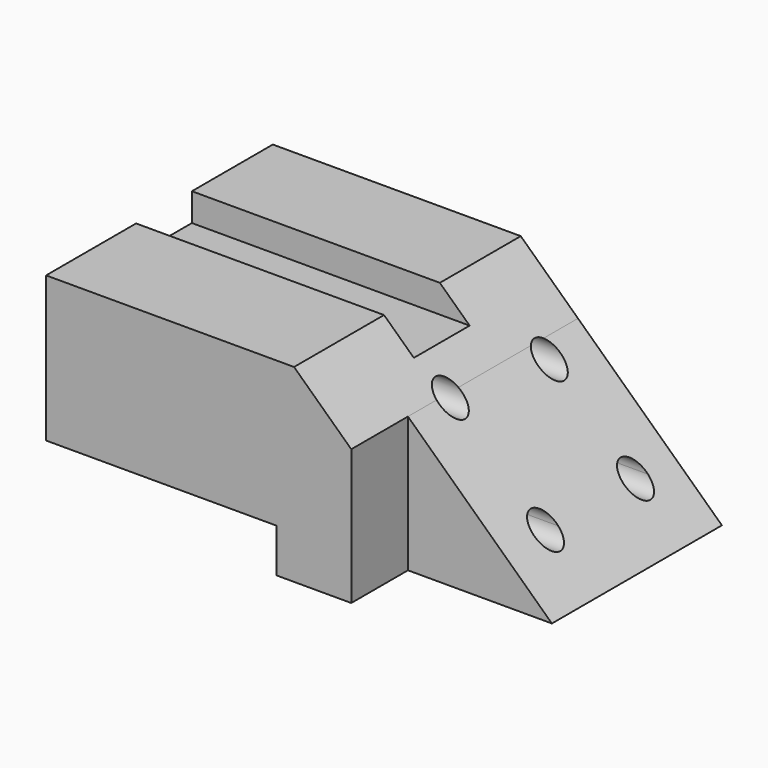
from build123d import *

# Parameters (mm, degrees)
F1_DEPTH = 101.6
F3_DEPTH = 76.2
F4_W     = 25.0135893855
F4_H     = 20.0843550265
F5_DEPTH = 103.378
F6_R     = 4.9794966454
F7_DEPTH = 167.132


with BuildPart() as f1:
    # F0 (on Front) → F1 (new body)
    with BuildSketch(Plane.XZ):
        Polygon((-99.4555056095, 23.3819726855), (-99.4555056095, -18.3572731912), (-99.4555056095, -28.7481807172), (-16.8563630432, -28.7481807172), (-16.8563630432, -44.4500036538), (9.9582020193, -44.4500036538), (9.9582020193, 4.0893019177), (-10.5538228527, 23.3819726855), align=None)
    extrude(amount=F1_DEPTH)

    # F2 (on face) → F3 (join)
    with BuildSketch(Plane(origin=(0, 0, 0), x_dir=(-1, 0, 0), z_dir=(0, 1, 0))):
        Polygon((-9.9582020193, -44.4500036538), (-9.9582020193, 4.0893019177), (-61.5653358961, -44.4500036538), align=None)
    extrude(amount=-F3_DEPTH)

    # F4 (on face) → F5 (cut)
    with BuildSketch(Plane(origin=(-99.4555056095, 0, 0), x_dir=(0, -1, 0), z_dir=(-1, 0, 0))):
        with Locations((48.7646157427, 23.3819726855)):
            Rectangle(F4_W, F4_H)
    extrude(amount=-F5_DEPTH, mode=Mode.SUBTRACT)

    # F6 (on face) → F7 (cut)
    with BuildSketch(Plane(origin=(-99.4555056095, 0, 0), x_dir=(0, -1, 0), z_dir=(-1, 0, 0))):
        with Locations((18.2879269123, 0)):
            Circle(F6_R)
        with BuildLine():
            Line((62.3561588025, -28.7481807172), (52.4646214301, -28.7481807172))
            ThreePointArc((52.4646214301, -28.7481807172), (57.4103901163, -33.1490937952), (62.3561588025, -28.7481807172))
        make_face()
        with BuildLine():
            ThreePointArc((62.3898867617, -28.1695971498), (57.1206072149, -23.1985396455), (52.4646214301, -28.7481807172))
            Line((52.4646214301, -28.7481807172), (62.3561588025, -28.7481807172))
            ThreePointArc((62.3561588025, -28.7481807172), (62.3814476206, -28.4593800512), (62.3898867617, -28.1695971498))
        make_face()
        with Locations((58.4661085159, 3.1419980805)):
            Circle(F6_R)
        with BuildLine():
            Line((22.1901210724, -28.7481807172), (12.274295953, -28.7481807172))
            ThreePointArc((12.274295953, -28.7481807172), (17.2322085127, -33.264546828), (22.1901210724, -28.7481807172))
        make_face()
        with BuildLine():
            ThreePointArc((22.1901210724, -28.7481807172), (22.2063062098, -28.5168667938), (22.2117051581, -28.2850501826))
            ThreePointArc((22.2117051581, -28.2850501826), (17.0003919016, -23.3109524855), (12.274295953, -28.7481807172))
            Line((12.274295953, -28.7481807172), (22.1901210724, -28.7481807172))
        make_face()
    extrude(amount=-F7_DEPTH, mode=Mode.SUBTRACT)


solid = f1.part
